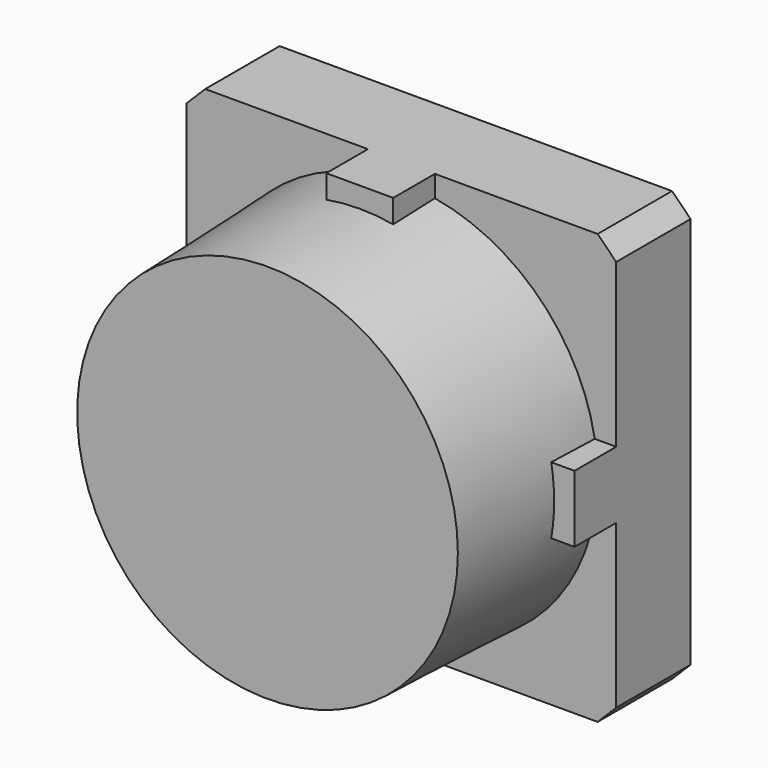
from build123d import *

# Parameters (mm, degrees)
PAD024_DEPTH    = 2.8
SKETCH047_W     = 23.1
SKETCH047_H     = 23.1
PAD025_DEPTH    = 5
SKETCH049_R     = 2.5
PAD026_DEPTH    = 3
FILLET002_R     = 2
FILLET003_R     = 7
SKETCH051_R     = 10.55
PAD027_DEPTH    = 9
PAD027_TAPER    = 2
CHAMFER013_SIZE = 1


with BuildPart() as part:
    # Sketch046 → Pad024 (new body)
    with BuildSketch(Plane.XZ):
        Polygon((-1.8, 11.55), (-1.8, 1.8), (-11.55, 1.8), (-11.55, -1.8), (-1.8, -1.8), (-1.8, -11.55), (1.8, -11.55), (1.8, -1.8), (11.55, -1.8), (11.55, 1.8), (1.8, 1.8), (1.8, 11.55), align=None)
    extrude(amount=PAD024_DEPTH)

    # Sketch047 → Pad025 (join)
    with BuildSketch(Plane.XZ):
        Rectangle(SKETCH047_W, SKETCH047_H)
    extrude(amount=-PAD025_DEPTH)

    # Sketch049 (on Face7 of Pad025) → Pad026 (join)
    with BuildSketch(Plane(origin=(0, 5, 0), x_dir=(1, 0, 0), z_dir=(0, 1, 0))):
        Circle(SKETCH049_R)
    extrude(amount=PAD026_DEPTH)

    # Fillet002
    fillet002_edges = [part.edges().sort_by_distance(p)[0] for p in [
        (-2.5, 8, 0),
    ]]
    fillet(fillet002_edges, radius=FILLET002_R)

    # Fillet003
    fillet003_edges = [part.edges().sort_by_distance(p)[0] for p in [
        (-2.5, 5, 0),
    ]]
    fillet(fillet003_edges, radius=FILLET003_R)

    # Sketch051 → Pad027 (join)
    with BuildSketch(Plane.XZ):
        Circle(SKETCH051_R)
    extrude(amount=PAD027_DEPTH, taper=PAD027_TAPER)

    # Chamfer013
    chamfer013_edges = [part.edges().sort_by_distance(p)[0] for p in [
        (-11.55, 2.5, 11.55),
        (-11.55, 2.5, -11.55),
        (11.55, 2.5, 11.55),
        (11.55, 2.5, -11.55),
    ]]
    chamfer(chamfer013_edges, length=CHAMFER013_SIZE)


with BuildPart() as part_1:
    # Body025 placement: moved
    add(part.part.moved(Location((0, 62.5, 0))))


solid = part_1.part
